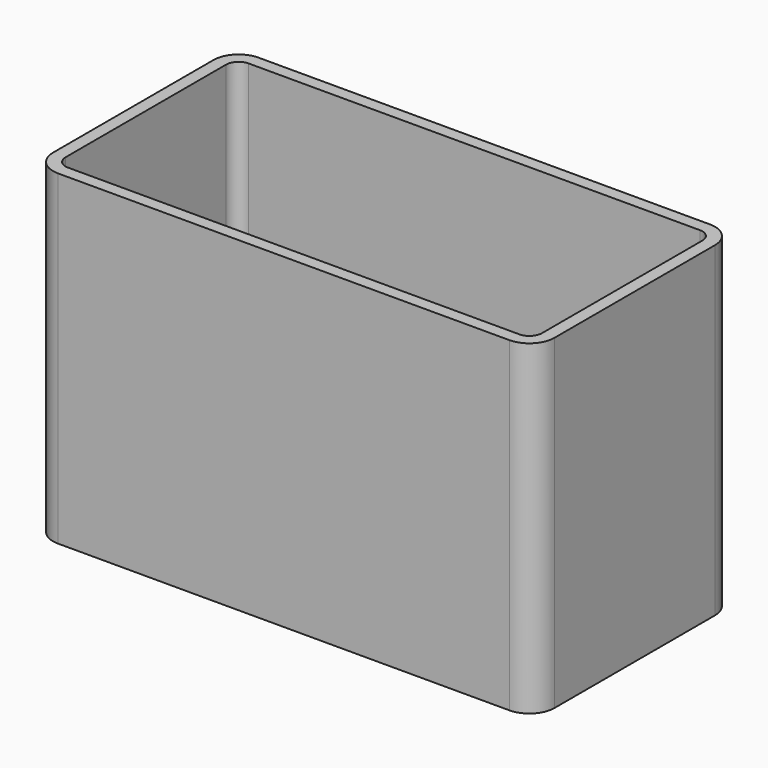
from build123d import *

# Parameters (mm, degrees)
F0_W     = 100
F0_H     = 65
F1_DEPTH = 50
F2_R     = 5
F3_T     = -2.5


with BuildPart() as f1:
    # F0 (on Front) → F1 (new body)
    with BuildSketch(Plane.XZ):
        Rectangle(F0_W, F0_H)
    extrude(amount=F1_DEPTH)

    # F2
    f2_edges = [f1.edges().sort_by_distance(p)[0] for p in [
        (-50, -50, 0),
        (50, -50, 0),
        (-50, 0, 0),
        (50, 0, 0),
    ]]
    fillet(f2_edges, radius=F2_R)

    # F3
    f3_openings = [f1.faces().sort_by_distance(p)[0] for p in [
        (0, -25, 32.5),
        (0, -25, -32.5),
    ]]
    offset(amount=F3_T, openings=f3_openings)


solid = f1.part
